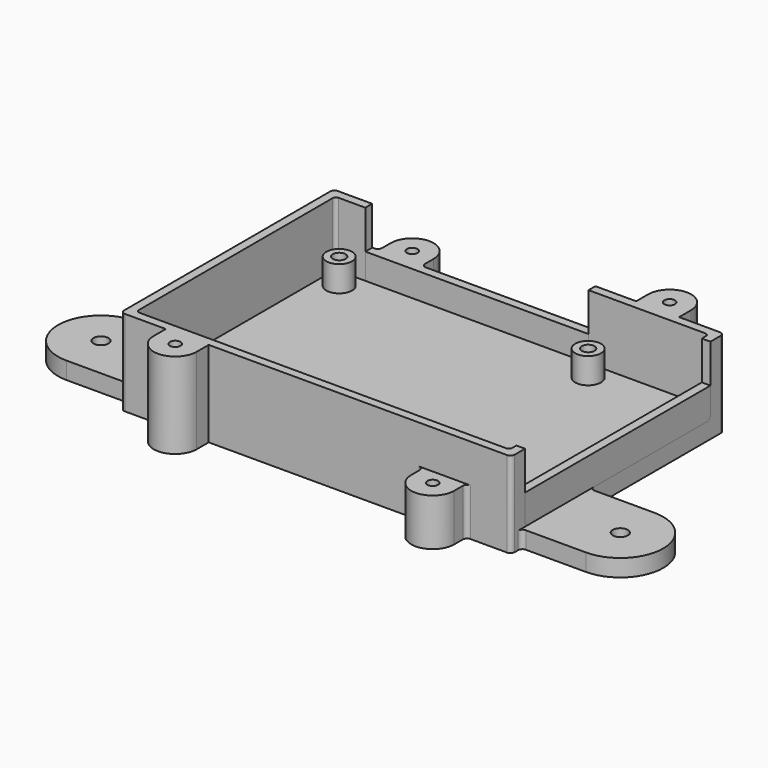
from build123d import *

# Parameters (mm, degrees)
SKETCH_W               = 91
SKETCH_H               = 62
PAD_DEPTH              = 11
SKETCH001_W            = 87
SKETCH001_H            = 58
POCKET_DEPTH           = 6
FILLET_R               = 1
FILLET001_R            = 0.8
SKETCH002_R            = 3
PAD001_DEPTH           = 6
SKETCH003_R            = 1.5
POCKET001_DEPTH        = 11.001
POCKET002_DEPTH        = 3
SKETCH005_W            = 2
SKETCH005_H            = 23
POCKET003_DEPTH        = 5
FILLET002_R            = 2
SKETCH006_R            = 1.75
PAD002_DEPTH           = 4
FILLET003_R            = 1
SKETCH007_R            = 1.25
PAD003_DEPTH           = 11
FILLET004_R            = 1
POCKET004_DEPTH        = 4
SKETCH009_W            = 91
SKETCH009_H            = 62
PAD004_DEPTH           = 20
SKETCH010_W            = 87
SKETCH010_H            = 58
POCKET005_DEPTH        = 18
FILLET005_R            = 1
FILLET006_R            = 0.8
POCKET006_DEPTH        = 2.001
LINEARPATTERN_COUNT    = 3
LINEARPATTERN_PITCH    = 17.5
LINEARPATTERN001_COUNT = 3
LINEARPATTERN001_PITCH = 17.5
SKETCH012_W            = 2
SKETCH012_H            = 54
POCKET007_DEPTH        = 16
FILLET007_R            = 1
SKETCH013_W            = 52
SKETCH013_H            = 2
POCKET008_DEPTH        = 16
FILLET008_R            = 1
SKETCH014_R            = 1.25
PAD005_DEPTH           = 20
SKETCH015_R            = 2.5
POCKET009_DEPTH        = 16


with BuildPart() as bottom:
    # Sketch → Pad (new body)
    with BuildSketch(Plane.XY):
        Rectangle(SKETCH_W, SKETCH_H)
    extrude(amount=PAD_DEPTH)

    # Sketch001 (on Face6 of Pad) → Pocket (cut)
    with BuildSketch(Plane.XY.offset(11)):
        Rectangle(SKETCH001_W, SKETCH001_H)
    extrude(amount=-POCKET_DEPTH, mode=Mode.SUBTRACT)

    # Fillet
    fillet_edges = [bottom.edges().sort_by_distance(p)[0] for p in [
        (-45.5, 31, 5.5),
        (-45.5, -31, 5.5),
        (45.5, -31, 5.5),
        (45.5, 31, 5.5),
    ]]
    fillet(fillet_edges, radius=FILLET_R)

    # Fillet001
    fillet001_edges = [bottom.edges().sort_by_distance(p)[0] for p in [
        (-43.5, 29, 8),
        (-43.5, -29, 8),
        (43.5, 29, 8),
        (43.5, -29, 8),
    ]]
    fillet(fillet001_edges, radius=FILLET001_R)

    # Sketch002 (on Face18 of Fillet001) → Pad001 (join)
    with BuildSketch(Plane.XY.offset(5)):
        with Locations((-39, 24.5)):
            Circle(SKETCH002_R)
        with Locations((19, 24.5)):
            Circle(SKETCH002_R)
        with Locations((-39, -24.5)):
            Circle(SKETCH002_R)
        with Locations((19, -24.5)):
            Circle(SKETCH002_R)
    extrude(amount=PAD001_DEPTH)

    # Sketch003 (on Face26 of Pad001) → Pocket001 (cut, through all)
    with BuildSketch(Plane.XY.offset(11)):
        with Locations((-39, 24.5)):
            Circle(SKETCH003_R)
        with Locations((19, 24.5)):
            Circle(SKETCH003_R)
        with Locations((-39, -24.5)):
            Circle(SKETCH003_R)
        with Locations((19, -24.5)):
            Circle(SKETCH003_R)
    extrude(amount=-POCKET001_DEPTH, mode=Mode.SUBTRACT)

    # Sketch004 (on Face19 of Pocket001) → Pocket002 (cut)
    with BuildSketch(Plane(origin=(0, 0, 0), x_dir=(1, 0, 0), z_dir=(0, 0, -1))):
        Polygon((-37.498889, 27.1), (-40.501111, 27.1), (-42.002221, 24.5), (-40.501111, 21.9), (-37.498889, 21.9), (-35.997779, 24.5), align=None)
        Polygon((22.002221, 24.5), (20.501111, 27.1), (17.498889, 27.1), (15.997779, 24.5), (17.498889, 21.9), (20.501111, 21.9), align=None)
        Polygon((-35.997779, -24.5), (-37.498889, -21.9), (-40.501111, -21.9), (-42.002221, -24.5), (-40.501111, -27.1), (-37.498889, -27.1), align=None)
        Polygon((20.501111, -21.9), (17.498889, -21.9), (15.997779, -24.5), (17.498889, -27.1), (20.501111, -27.1), (22.002221, -24.5), align=None)
    extrude(amount=-POCKET002_DEPTH, mode=Mode.SUBTRACT)

    # Sketch005 (on Face1 of Pocket002) → Pocket003 (cut)
    with BuildSketch(Plane.XY.offset(11)):
        with Locations((-44.5, 0)):
            Rectangle(SKETCH005_W, SKETCH005_H)
    extrude(amount=-POCKET003_DEPTH, mode=Mode.SUBTRACT)

    # Fillet002
    fillet002_edges = [bottom.edges().sort_by_distance(p)[0] for p in [
        (-44.5, 11.5, 6),
        (-44.5, -11.5, 6),
    ]]
    fillet(fillet002_edges, radius=FILLET002_R)

    # Sketch006 (on Face28 of Fillet002) → Pad002 (join)
    with BuildSketch(Plane(origin=(0, 0, 0), x_dir=(1, 0, 0), z_dir=(0, 0, -1))):
        with BuildLine():
            Line((-45.5, 28), (-60.5, 28))
            ThreePointArc((-60.5, 28), (-70.5, 18), (-60.5, 8))
            Line((-45.5, 8), (-60.5, 8))
            Line((-45.5, 28), (-45.5, 8))
        make_face()
        with Locations((-60.5, 18)):
            Circle(SKETCH006_R, mode=Mode.SUBTRACT)
    pad002 = extrude(amount=-PAD002_DEPTH)

    # Mirrored: Pad002 across Sketch006 V_Axis
    add(pad002.mirror(Plane(origin=(0, 0, 0), x_dir=(0, 0, -1), z_dir=(1, 0, 0))))

    # Fillet003
    fillet003_edges = [bottom.edges().sort_by_distance(p)[0] for p in [
        (-45.5, -28, 2),
        (-45.5, -8, 2),
        (45.5, -28, 2),
        (45.5, -8, 2),
    ]]
    fillet(fillet003_edges, radius=FILLET003_R)

    # Sketch007 (on Face2 of Fillet003) → Pad003 (join)
    with BuildSketch(Plane(origin=(0, 0, 0), x_dir=(1, 0, 0), z_dir=(0, 0, -1))):
        with BuildLine():
            Line((25, 31), (25, 34.5))
            ThreePointArc((35, 34.5), (30, 39.5), (25, 34.5))
            Line((35, 31), (35, 34.5))
            Line((25, 31), (35, 31))
        make_face()
        with Locations((30, 34.5)):
            Circle(SKETCH007_R, mode=Mode.SUBTRACT)
        with BuildLine():
            Line((-35, -31), (-35, -34.5))
            ThreePointArc((-35, -34.5), (-30, -39.5), (-25, -34.5))
            Line((-25, -31), (-25, -34.5))
            Line((-35, -31), (-25, -31))
        make_face()
        with Locations((-30, -34.5)):
            Circle(SKETCH007_R, mode=Mode.SUBTRACT)
    extrude(amount=-PAD003_DEPTH)

    # Fillet004
    fillet004_edges = [bottom.edges().sort_by_distance(p)[0] for p in [
        (-25, 31, 5.5),
        (-35, 31, 5.5),
        (25, -31, 5.5),
        (35, -31, 5.5),
    ]]
    fillet(fillet004_edges, radius=FILLET004_R)

    # Sketch008 (on Face13 of Fillet004) → Pocket004 (cut)
    with BuildSketch(Plane(origin=(0, 0, 0), x_dir=(1, 0, 0), z_dir=(0, 0, -1))):
        Polygon((-28.787564, -32.4), (-31.212436, -32.4), (-32.424871, -34.5), (-31.212436, -36.6), (-28.787564, -36.6), (-27.575129, -34.5), align=None)
        Polygon((31.212436, 36.6), (28.787564, 36.6), (27.575129, 34.5), (28.787564, 32.4), (31.212436, 32.4), (32.424871, 34.5), align=None)
    extrude(amount=-POCKET004_DEPTH, mode=Mode.SUBTRACT)


with BuildPart() as top:
    # Sketch009 → Pad004 (new body)
    with BuildSketch(Plane.XY):
        Rectangle(SKETCH009_W, SKETCH009_H)
    extrude(amount=PAD004_DEPTH)

    # Sketch010 (on Face6 of Pad004) → Pocket005 (cut)
    with BuildSketch(Plane.XY.offset(20)):
        Rectangle(SKETCH010_W, SKETCH010_H)
    extrude(amount=-POCKET005_DEPTH, mode=Mode.SUBTRACT)

    # Fillet005
    fillet005_edges = [top.edges().sort_by_distance(p)[0] for p in [
        (-45.5, -31, 10),
        (-45.5, 31, 10),
        (45.5, 31, 10),
        (45.5, -31, 10),
    ]]
    fillet(fillet005_edges, radius=FILLET005_R)

    # Fillet006
    fillet006_edges = [top.edges().sort_by_distance(p)[0] for p in [
        (-43.5, 29, 11),
        (-43.5, -29, 11),
        (43.5, -29, 11),
        (43.5, 29, 11),
    ]]
    fillet(fillet006_edges, radius=FILLET006_R)

    # Sketch011 (on Face18 of Fillet006) → Pocket006 (cut, through all)
    with BuildSketch(Plane.XY.offset(2)):
        with BuildLine():
            Line((-2, 22.5), (-2, -22.5))
            ThreePointArc((-2, -22.5), (0, -24.5), (2, -22.5))
            Line((2, 22.5), (2, -22.5))
            ThreePointArc((2, 22.5), (0, 24.5), (-2, 22.5))
        make_face()
    pocket006 = extrude(amount=-POCKET006_DEPTH, mode=Mode.SUBTRACT)

    # LinearPattern: Pocket006 ×3
    with Locations(*[(i * LINEARPATTERN_PITCH, 0, 0) for i in range(1, LINEARPATTERN_COUNT)]):
        add(pocket006, mode=Mode.SUBTRACT)

    # LinearPattern001: Pocket006 ×3
    with Locations(*[(-i * LINEARPATTERN001_PITCH, 0, 0) for i in range(1, LINEARPATTERN001_COUNT)]):
        add(pocket006, mode=Mode.SUBTRACT)

    # Sketch012 (on Face1 of LinearPattern001) → Pocket007 (cut)
    with BuildSketch(Plane.XY.offset(20)):
        with Locations((44.5, 0)):
            Rectangle(SKETCH012_W, SKETCH012_H)
    extrude(amount=-POCKET007_DEPTH, mode=Mode.SUBTRACT)

    # Fillet007
    fillet007_edges = [top.edges().sort_by_distance(p)[0] for p in [
        (44.5, -27, 4),
        (44.5, 27, 4),
    ]]
    fillet(fillet007_edges, radius=FILLET007_R)

    # Sketch013 (on Face4 of Fillet007) → Pocket008 (cut)
    with BuildSketch(Plane.XY.offset(20)):
        with Locations((-10.5, 30)):
            Rectangle(SKETCH013_W, SKETCH013_H)
    extrude(amount=-POCKET008_DEPTH, mode=Mode.SUBTRACT)

    # Fillet008
    fillet008_edges = [top.edges().sort_by_distance(p)[0] for p in [
        (-36.5, 30, 4),
        (15.5, 30, 4),
    ]]
    fillet(fillet008_edges, radius=FILLET008_R)

    # Sketch014 (on Face11 of Fillet008) → Pad005 (join)
    with BuildSketch(Plane.XY.offset(20)):
        with BuildLine():
            Line((-35, -31), (-35, -34.5))
            ThreePointArc((-35, -34.5), (-30, -39.5), (-25, -34.5))
            Line((-25, -31), (-25, -34.5))
            Line((-35, -31), (-25, -31))
        make_face()
        with Locations((-30, -34.5)):
            Circle(SKETCH014_R, mode=Mode.SUBTRACT)
        with BuildLine():
            Line((25, 31), (25, 34.5))
            ThreePointArc((35, 34.5), (30, 39.5), (25, 34.5))
            Line((35, 31), (35, 34.5))
            Line((25, 31), (35, 31))
        make_face()
        with Locations((30, 34.5)):
            Circle(SKETCH014_R, mode=Mode.SUBTRACT)
    extrude(amount=-PAD005_DEPTH)

    # Sketch015 (on Face23 of Pad005) → Pocket009 (cut)
    with BuildSketch(Plane(origin=(0, 0, 0), x_dir=(1, 0, 0), z_dir=(0, 0, -1))):
        with Locations((-30, 34.5)):
            Circle(SKETCH015_R)
        with Locations((30, -34.5)):
            Circle(SKETCH015_R)
    extrude(amount=-POCKET009_DEPTH, mode=Mode.SUBTRACT)


solid = Compound([bottom.part, top.part])
